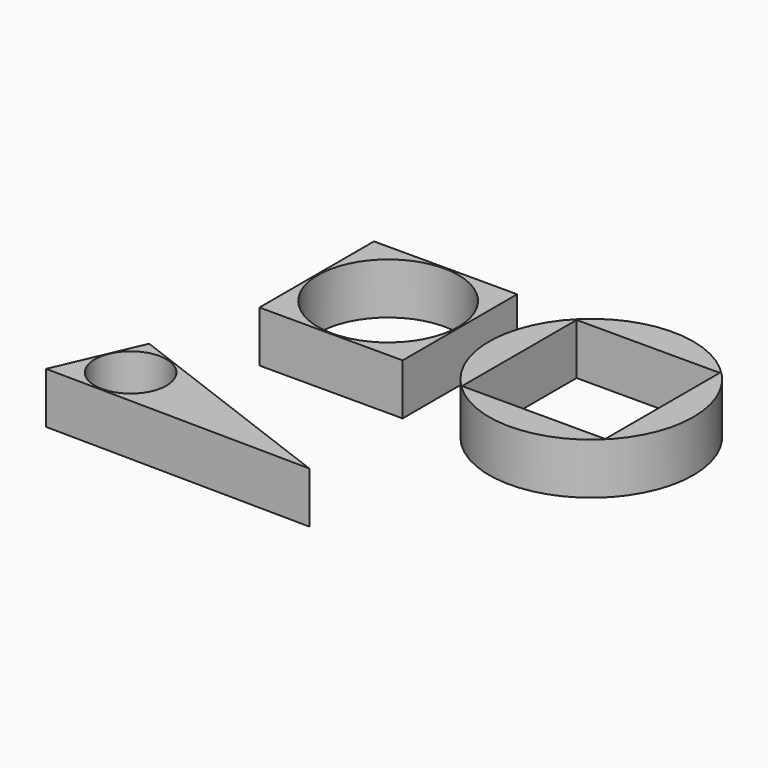
from build123d import *

# Parameters (mm, degrees)
F0_R     = 17.5
F0_R_2   = 49.980835
F0_W     = 70
F0_H     = 70
F0_R_3   = 34.344799
F1_DEPTH = 25


with BuildPart() as f1:
    # F0 (on Top) → F1 (new body)
    with BuildSketch(Plane.XY):
        Polygon((-112.384051, -72.574623), (17.606466, -74.144803), (-94.6527, -31.743392), align=None)
        with Locations((-85.315889, -54.714878)):
            Circle(F0_R, mode=Mode.SUBTRACT)
        with Locations((55.537091, 50.740998)):
            Circle(F0_R_2)
        with Locations((55.537091, 50.531904)):
            Rectangle(F0_W, F0_H, mode=Mode.SUBTRACT)
        with Locations((-45.466638, 52.946514)):
            Rectangle(F0_W, F0_H)
        with Locations((-45.466638, 52.86381)):
            Circle(F0_R_3, mode=Mode.SUBTRACT)
    extrude(amount=F1_DEPTH)


solid = f1.part
